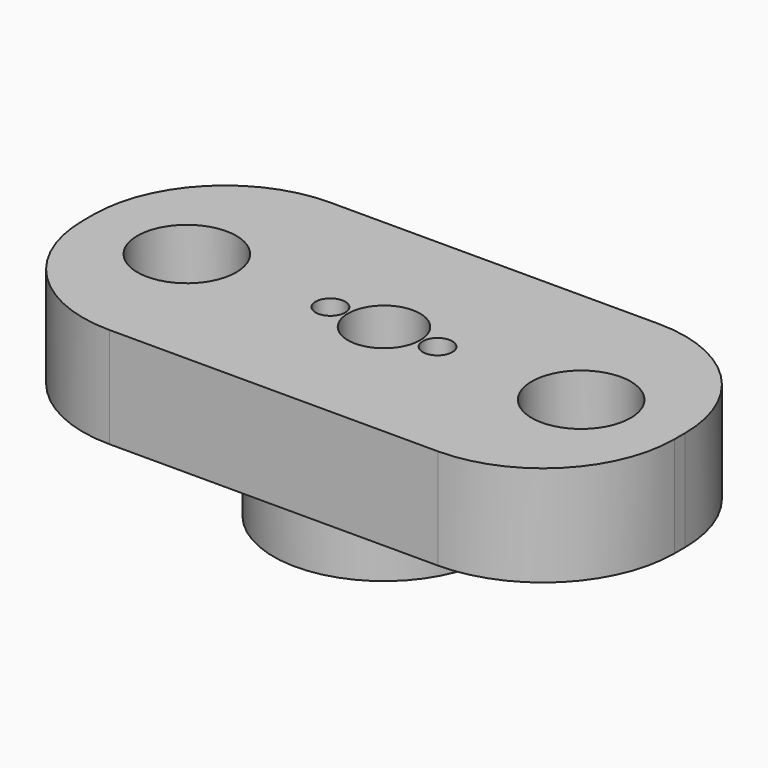
from build123d import *

# Parameters (mm, degrees)
F0_W      = 90
F0_H      = 42
F1_DEPTH  = 15.3
F2_R      = 20
F3_R      = 20
F4_R      = 13.825
F5_DEPTH  = 7
F6_R      = 5.5
F7_DEPTH  = 10
F8_R      = 7.525
F8_R_2    = 1.2
F9_DEPTH  = 18
F10_R     = 16.825
F10_R_2   = 13.825
F11_DEPTH = 10
F12_SIZE  = 1
F13_SIZE  = 0.5
F14_R     = 2.25
F15_DEPTH = 6


with BuildPart() as f1:
    # F0 (on Top) → F1 (new body)
    with BuildSketch(Plane.XY):
        Rectangle(F0_W, F0_H)
    extrude(amount=F1_DEPTH)

    # F2
    f2_edges = [f1.edges().sort_by_distance(p)[0] for p in [
        (-45, -21, 7.65),
        (-45, 21, 7.65),
    ]]
    fillet(f2_edges, radius=F2_R)

    # F3
    f3_edges = [f1.edges().sort_by_distance(p)[0] for p in [
        (45, 21, 7.65),
        (45, -21, 7.65),
    ]]
    fillet(f3_edges, radius=F3_R)

    # F4 (on face) → F5 (cut)
    with BuildSketch(Plane(origin=(0, 0, 0), x_dir=(1, 0, 0), z_dir=(0, 0, -1))):
        Circle(F4_R)
    extrude(amount=-F5_DEPTH, mode=Mode.SUBTRACT)

    # F6 (on face) → F7 (cut)
    with BuildSketch(Plane.XY.offset(15.3)):
        Circle(F6_R)
    extrude(amount=-F7_DEPTH, mode=Mode.SUBTRACT)

    # F8 (on face) → F9 (cut)
    with BuildSketch(Plane.XY.offset(15.3)):
        with Locations((-30, 0)):
            Circle(F8_R)
        with Locations((30, 0)):
            Circle(F8_R)
        with Locations((-8.15, 0)):
            Circle(F8_R_2)
        with Locations((8.15, 0)):
            Circle(F8_R_2)
    extrude(amount=-F9_DEPTH, mode=Mode.SUBTRACT)

    # F10 (on face) → F11 (join)
    with BuildSketch(Plane(origin=(0, 0, 0), x_dir=(1, 0, 0), z_dir=(0, 0, -1))):
        Circle(F10_R)
        Circle(F10_R_2, mode=Mode.SUBTRACT)
    extrude(amount=F11_DEPTH)

    # F12
    f12_edges = [f1.edges().sort_by_distance(p)[0] for p in [
        (-13.825, 0, -10),
    ]]
    chamfer(f12_edges, length=F12_SIZE)

    # F13
    f13_edges = [f1.edges().sort_by_distance(p)[0] for p in [
        (-37.525, 0, 0),
        (22.475, 0, 0),
    ]]
    chamfer(f13_edges, length=F13_SIZE)

    # F14 (on face) → F15 (cut)
    with BuildSketch(Plane.XY.offset(15.3)):
        with Locations((-8.15, 0)):
            Circle(F14_R)
        with Locations((8.15, 0)):
            Circle(F14_R)
    extrude(amount=-F15_DEPTH, mode=Mode.SUBTRACT)


solid = f1.part
